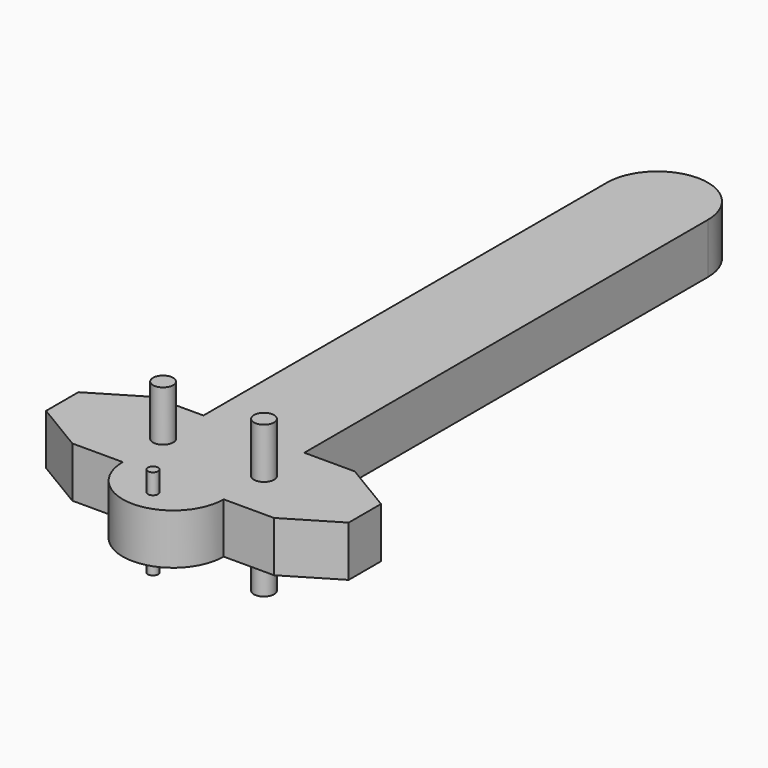
from build123d import *

# Parameters (mm, degrees)
F0_R     = 1
F0_R_2   = 0.5
F1_DEPTH = 5
F2_DEPTH = 7
F3_DEPTH = 2
F4_DEPTH = 10
F5_DEPTH = 5


with BuildPart() as f1:
    # F0 (on Top) → F1 (new body)
    with BuildSketch(Plane.XY):
        with BuildLine():
            Line((-60.480928, 60), (-60.480928, 10))
            Line((-60.480928, 10), (-50.480928, 10))
            Line((-50.480928, 10), (-50.480928, 60))
            ThreePointArc((-50.480928, 60), (-55.480928, 65), (-60.480928, 60))
        make_face()
        Polygon((-50.480928, 10), (-60.480928, 10), (-65.480928, 10), (-70.480928, 7), (-70.480928, 3), (-65.480928, 0), (-60.480928, 0), (-50.480928, 0), (-45.480928, 0), (-40.480928, 3), (-40.480928, 7), (-45.480928, 10), align=None)
        with Locations((-60.480928, 5)):
            Circle(F0_R, mode=Mode.SUBTRACT)
        with Locations((-50.480928, 5)):
            Circle(F0_R, mode=Mode.SUBTRACT)
        with BuildLine():
            Line((-50.480928, 0), (-60.480928, 0))
            ThreePointArc((-60.480928, 0), (-55.480928, -5), (-50.480928, 0))
        make_face()
        with Locations((-55.480928, -2.5)):
            Circle(F0_R_2, mode=Mode.SUBTRACT)
        with Locations((-55.480928, -2.5)):
            Circle(F0_R_2)
    extrude(amount=F1_DEPTH)

    # F0 (on Top) → F2 (join)
    with BuildSketch(Plane.XY):
        with Locations((-55.480928, -2.5)):
            Circle(F0_R_2)
    extrude(amount=F2_DEPTH)

    # F0 (on Top) → F3 (join)
    with BuildSketch(Plane.XY):
        with Locations((-55.480928, -2.5)):
            Circle(F0_R_2)
    extrude(amount=-F3_DEPTH)

    # F0 (on Top) → F4 (join)
    with BuildSketch(Plane.XY):
        with Locations((-60.480928, 5)):
            Circle(F0_R)
        with Locations((-50.480928, 5)):
            Circle(F0_R)
    extrude(amount=F4_DEPTH)

    # F0 (on Top) → F5 (join)
    with BuildSketch(Plane.XY):
        with Locations((-50.480928, 5)):
            Circle(F0_R)
        with Locations((-60.480928, 5)):
            Circle(F0_R)
    extrude(amount=-F5_DEPTH)


solid = f1.part
